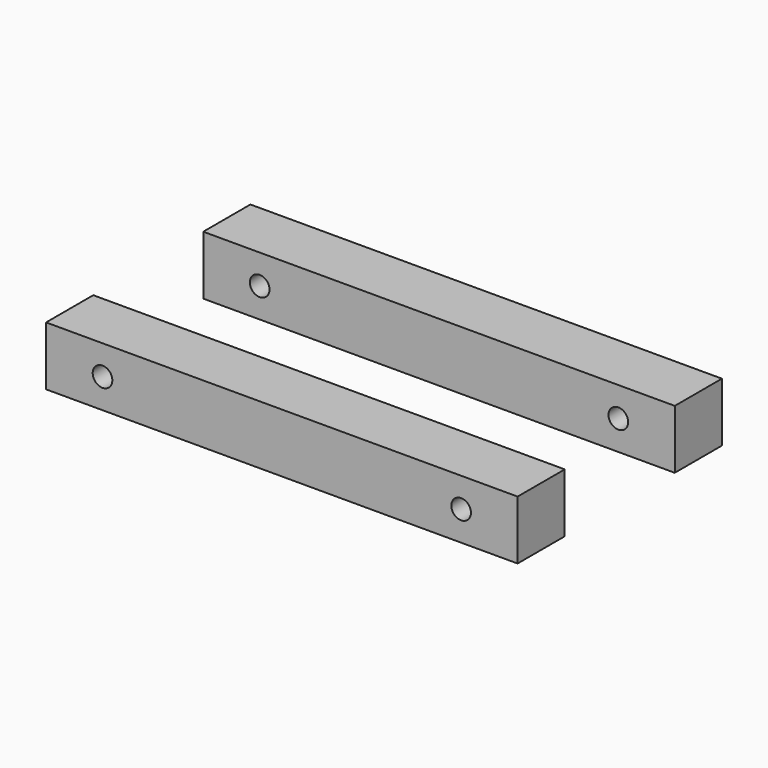
from build123d import *

# Parameters (mm, degrees)
F0_W       = 304.8
F0_H       = 38.1
F1_DEPTH   = 19.05
F5_D       = 12.7
F5_DEPTH   = 609.6
F5_2_D     = 12.7
F5_2_DEPTH = 609.6
F6_D       = 12.7
F6_DEPTH   = 609.6
F6_2_D     = 12.7
F6_2_DEPTH = 609.6


with BuildPart() as f1:
    # F0 (on Front) → F1 (new body, symmetric)
    with BuildSketch(Plane.XZ):
        Rectangle(F0_W, F0_H)
    extrude(amount=F1_DEPTH, both=True)

    # F5
    with Locations(Plane.XZ.offset(91.44)):
        with Locations((115.9129, 0)):
            Hole(F5_D / 2, depth=F5_DEPTH)

    # F6
    with Locations(Plane.XZ.offset(91.44)):
        with Locations((-115.9129, 0)):
            Hole(F6_D / 2, depth=F6_DEPTH)


with BuildPart() as f2_1:
    # F2: copy of F1
    add(f1.part.moved(Location((0, 127, 0))))

    # F5#2
    with Locations(Plane.XZ.offset(91.44)):
        with Locations((115.9129, 0)):
            Hole(F5_2_D / 2, depth=F5_2_DEPTH)

    # F6#2
    with Locations(Plane.XZ.offset(91.44)):
        with Locations((-115.9129, 0)):
            Hole(F6_2_D / 2, depth=F6_2_DEPTH)


solid = Compound([f1.part, f2_1.part])
